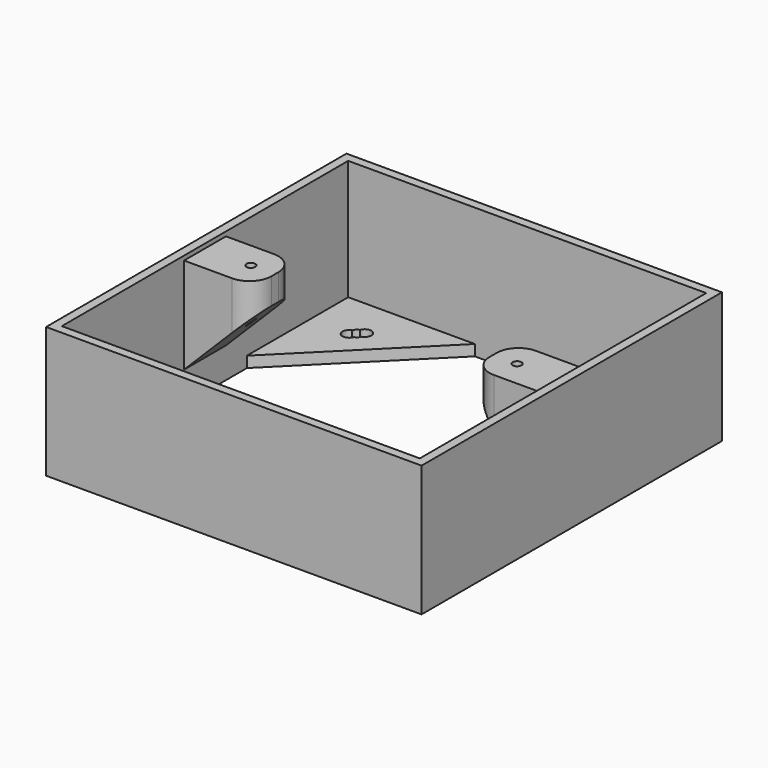
from build123d import *

# Parameters (mm, degrees)
BOX001_W                   = 82
BOX001_H                   = 82
BOX001_DEPTH               = 30
BOX_W                      = 86
BOX_H                      = 86
BOX_DEPTH                  = 30
CYLINDER004_R              = 1.5
CYLINDER004_DEPTH          = 2.5
CYLINDER003_R              = 1.5
CYLINDER003_DEPTH          = 2.5
CYLINDER002_R              = 1.5
CYLINDER002_DEPTH          = 2.5
BOX009_W                   = 30
BOX009_H                   = 30
BOX009_DEPTH               = 2.5
CHAMFER004_SIZE            = 29
CUT005_PLACEMENT_ANGLE     = 90
CYLINDER007_R              = 1.5
CYLINDER007_DEPTH          = 2.5
CYLINDER006_R              = 1.5
CYLINDER006_DEPTH          = 2.5
CYLINDER005_R              = 1.5
CYLINDER005_DEPTH          = 2.5
BOX010_W                   = 30
BOX010_H                   = 30
BOX010_DEPTH               = 2.5
CHAMFER005_SIZE            = 29
CUT008_PLACEMENT_ANGLE     = 180
CYLINDER010_R              = 1.5
CYLINDER010_DEPTH          = 2.5
CYLINDER009_R              = 1.5
CYLINDER009_DEPTH          = 2.5
CYLINDER008_R              = 1.5
CYLINDER008_DEPTH          = 2.5
BOX011_W                   = 30
BOX011_H                   = 30
BOX011_DEPTH               = 2.5
CHAMFER006_SIZE            = 29
CUT011_PLACEMENT_ANGLE     = -90
CYLINDER013_R              = 1.5
CYLINDER013_DEPTH          = 2.5
CYLINDER012_R              = 1.5
CYLINDER012_DEPTH          = 2.5
CYLINDER011_R              = 1.5
CYLINDER011_DEPTH          = 2.5
BOX012_W                   = 30
BOX012_H                   = 30
BOX012_DEPTH               = 2.5
CHAMFER007_SIZE            = 29
BOX015_W                   = 16
BOX015_H                   = 12
BOX015_DEPTH               = 6
BOX013_W                   = 21
BOX013_H                   = 12
BOX013_DEPTH               = 21
CHAMFER_SIZE               = 20
CYLINDER_R                 = 1
CYLINDER_DEPTH             = 29
BOX002_W                   = 16
BOX002_H                   = 12
BOX002_DEPTH               = 29
FILLET_R                   = 5
BOX016_W                   = 16
BOX016_H                   = 12
BOX016_DEPTH               = 6
BOX014_W                   = 21
BOX014_H                   = 12
BOX014_DEPTH               = 21
CHAMFER008_SIZE            = 20
CHAMFER008_PLACEMENT_ANGLE = 180
CYLINDER001_R              = 1
CYLINDER001_DEPTH          = 29
BOX003_W                   = 16
BOX003_H                   = 12
BOX003_DEPTH               = 29
FILLET001_R                = 5


with BuildPart() as cube001:
    # Box001 → Box001 (new body)
    with BuildSketch(Plane(origin=(2, 2, 0), x_dir=(1, 0, 0), z_dir=(0, 0, 1))):
        with Locations((41, 41)):
            Rectangle(BOX001_W, BOX001_H)
    extrude(amount=BOX001_DEPTH)


with BuildPart() as cut:
    # Box → Box (new body)
    with BuildSketch(Plane.XY):
        with Locations((43, 43)):
            Rectangle(BOX_W, BOX_H)
    extrude(amount=BOX_DEPTH)

    # Cut: cut Cube001
    add(cube001.part, mode=Mode.SUBTRACT)


with BuildPart() as cylinder002:
    # Cylinder004 → Cylinder004 (new body)
    with BuildSketch(Plane(origin=(12, -30, 0), x_dir=(1, 0, 0), z_dir=(0, 0, 1))):
        Circle(CYLINDER004_R)
    extrude(amount=CYLINDER004_DEPTH)


with BuildPart() as cylinder001:
    # Cylinder003 → Cylinder003 (new body)
    with BuildSketch(Plane(origin=(11, -29, 0), x_dir=(1, 0, 0), z_dir=(0, 0, 1))):
        Circle(CYLINDER003_R)
    extrude(amount=CYLINDER003_DEPTH)


with BuildPart() as cylinder:
    # Cylinder002 → Cylinder002 (new body)
    with BuildSketch(Plane(origin=(10, -28, 0), x_dir=(1, 0, 0), z_dir=(0, 0, 1))):
        Circle(CYLINDER002_R)
    extrude(amount=CYLINDER002_DEPTH)


with BuildPart() as cut005:
    # Box009 → Box009 (new body)
    with BuildSketch(Plane(origin=(0, -40, 0), x_dir=(1, 0, 0), z_dir=(0, 0, 1))):
        with Locations((15, 15)):
            Rectangle(BOX009_W, BOX009_H)
    extrude(amount=BOX009_DEPTH)

    # Chamfer004
    chamfer004_edges = [cut005.edges().sort_by_distance(p)[0] for p in [
        (30, -10, 1.25),
    ]]
    chamfer(chamfer004_edges, length=CHAMFER004_SIZE)

    # Cut003: cut Cylinder
    add(cylinder.part, mode=Mode.SUBTRACT)

    # Cut004: cut Cylinder001
    add(cylinder001.part, mode=Mode.SUBTRACT)

    # Cut005: cut Cylinder002
    add(cylinder002.part, mode=Mode.SUBTRACT)


with BuildPart() as cut005_1:
    # Cut005 placement: moved
    add(cut005.part.moved(Location((45, 1, 0))).rotate(Axis((45, 1, 0), (0, 0, 1)), CUT005_PLACEMENT_ANGLE))


with BuildPart() as cylinder005:
    # Cylinder007 → Cylinder007 (new body)
    with BuildSketch(Plane(origin=(12, -30, 0), x_dir=(1, 0, 0), z_dir=(0, 0, 1))):
        Circle(CYLINDER007_R)
    extrude(amount=CYLINDER007_DEPTH)


with BuildPart() as cylinder015:
    # Cylinder006 → Cylinder006 (new body)
    with BuildSketch(Plane(origin=(11, -29, 0), x_dir=(1, 0, 0), z_dir=(0, 0, 1))):
        Circle(CYLINDER006_R)
    extrude(amount=CYLINDER006_DEPTH)


with BuildPart() as cylinder014:
    # Cylinder005 → Cylinder005 (new body)
    with BuildSketch(Plane(origin=(10, -28, 0), x_dir=(1, 0, 0), z_dir=(0, 0, 1))):
        Circle(CYLINDER005_R)
    extrude(amount=CYLINDER005_DEPTH)


with BuildPart() as cut008:
    # Box010 → Box010 (new body)
    with BuildSketch(Plane(origin=(0, -40, 0), x_dir=(1, 0, 0), z_dir=(0, 0, 1))):
        with Locations((15, 15)):
            Rectangle(BOX010_W, BOX010_H)
    extrude(amount=BOX010_DEPTH)

    # Chamfer005
    chamfer005_edges = [cut008.edges().sort_by_distance(p)[0] for p in [
        (30, -10, 1.25),
    ]]
    chamfer(chamfer005_edges, length=CHAMFER005_SIZE)

    # Cut006: cut Cylinder014
    add(cylinder014.part, mode=Mode.SUBTRACT)

    # Cut007: cut Cylinder015
    add(cylinder015.part, mode=Mode.SUBTRACT)

    # Cut008: cut Cylinder005
    add(cylinder005.part, mode=Mode.SUBTRACT)


with BuildPart() as cut008_1:
    # Cut008 placement: moved
    add(cut008.part.moved(Location((85, 45, 0))).rotate(Axis((85, 45, 0), (0, 0, 1)), CUT008_PLACEMENT_ANGLE))


with BuildPart() as cylinder018:
    # Cylinder010 → Cylinder010 (new body)
    with BuildSketch(Plane(origin=(12, -30, 0), x_dir=(1, 0, 0), z_dir=(0, 0, 1))):
        Circle(CYLINDER010_R)
    extrude(amount=CYLINDER010_DEPTH)


with BuildPart() as cylinder017:
    # Cylinder009 → Cylinder009 (new body)
    with BuildSketch(Plane(origin=(11, -29, 0), x_dir=(1, 0, 0), z_dir=(0, 0, 1))):
        Circle(CYLINDER009_R)
    extrude(amount=CYLINDER009_DEPTH)


with BuildPart() as cylinder016:
    # Cylinder008 → Cylinder008 (new body)
    with BuildSketch(Plane(origin=(10, -28, 0), x_dir=(1, 0, 0), z_dir=(0, 0, 1))):
        Circle(CYLINDER008_R)
    extrude(amount=CYLINDER008_DEPTH)


with BuildPart() as cut011:
    # Box011 → Box011 (new body)
    with BuildSketch(Plane(origin=(0, -40, 0), x_dir=(1, 0, 0), z_dir=(0, 0, 1))):
        with Locations((15, 15)):
            Rectangle(BOX011_W, BOX011_H)
    extrude(amount=BOX011_DEPTH)

    # Chamfer006
    chamfer006_edges = [cut011.edges().sort_by_distance(p)[0] for p in [
        (30, -10, 1.25),
    ]]
    chamfer(chamfer006_edges, length=CHAMFER006_SIZE)

    # Cut009: cut Cylinder016
    add(cylinder016.part, mode=Mode.SUBTRACT)

    # Cut010: cut Cylinder017
    add(cylinder017.part, mode=Mode.SUBTRACT)

    # Cut011: cut Cylinder018
    add(cylinder018.part, mode=Mode.SUBTRACT)


with BuildPart() as cut011_1:
    # Cut011 placement: moved
    add(cut011.part.moved(Location((41, 85, 0))).rotate(Axis((41, 85, 0), (0, 0, 1)), CUT011_PLACEMENT_ANGLE))


with BuildPart() as cylinder011:
    # Cylinder013 → Cylinder013 (new body)
    with BuildSketch(Plane(origin=(12, -30, 0), x_dir=(1, 0, 0), z_dir=(0, 0, 1))):
        Circle(CYLINDER013_R)
    extrude(amount=CYLINDER013_DEPTH)


with BuildPart() as cylinder020:
    # Cylinder012 → Cylinder012 (new body)
    with BuildSketch(Plane(origin=(11, -29, 0), x_dir=(1, 0, 0), z_dir=(0, 0, 1))):
        Circle(CYLINDER012_R)
    extrude(amount=CYLINDER012_DEPTH)


with BuildPart() as cylinder019:
    # Cylinder011 → Cylinder011 (new body)
    with BuildSketch(Plane(origin=(10, -28, 0), x_dir=(1, 0, 0), z_dir=(0, 0, 1))):
        Circle(CYLINDER011_R)
    extrude(amount=CYLINDER011_DEPTH)


with BuildPart() as cut014:
    # Box012 → Box012 (new body)
    with BuildSketch(Plane(origin=(0, -40, 0), x_dir=(1, 0, 0), z_dir=(0, 0, 1))):
        with Locations((15, 15)):
            Rectangle(BOX012_W, BOX012_H)
    extrude(amount=BOX012_DEPTH)

    # Chamfer007
    chamfer007_edges = [cut014.edges().sort_by_distance(p)[0] for p in [
        (30, -10, 1.25),
    ]]
    chamfer(chamfer007_edges, length=CHAMFER007_SIZE)

    # Cut012: cut Cylinder019
    add(cylinder019.part, mode=Mode.SUBTRACT)

    # Cut013: cut Cylinder020
    add(cylinder020.part, mode=Mode.SUBTRACT)

    # Cut014: cut Cylinder011
    add(cylinder011.part, mode=Mode.SUBTRACT)


with BuildPart() as cut014_1:
    # Cut014 placement: moved
    add(cut014.part.moved(Location((1, 41, 0))))


with BuildPart() as cube015:
    # Box015 → Box015 (new body)
    with BuildSketch(Plane(origin=(2, 37, 0), x_dir=(1, 0, 0), z_dir=(0, 0, 1))):
        with Locations((8, 6)):
            Rectangle(BOX015_W, BOX015_H)
    extrude(amount=BOX015_DEPTH)


with BuildPart() as chamfer_body:
    # Box013 → Box013 (new body)
    with BuildSketch(Plane(origin=(1, 37, 5), x_dir=(1, 0, 0), z_dir=(0, 0, 1))):
        with Locations((10.5, 6)):
            Rectangle(BOX013_W, BOX013_H)
    extrude(amount=BOX013_DEPTH)

    # Chamfer
    chamfer_edges = [chamfer_body.edges().sort_by_distance(p)[0] for p in [
        (1, 43, 26),
    ]]
    chamfer(chamfer_edges, length=CHAMFER_SIZE)


with BuildPart() as loch1:
    # Cylinder → Cylinder (new body)
    with BuildSketch(Plane(origin=(12.5, 43, 0), x_dir=(1, 0, 0), z_dir=(0, 0, 1))):
        Circle(CYLINDER_R)
    extrude(amount=CYLINDER_DEPTH)


with BuildPart() as cut017:
    # Box002 → Box002 (new body)
    with BuildSketch(Plane(origin=(2, 37, 0), x_dir=(1, 0, 0), z_dir=(0, 0, 1))):
        with Locations((8, 6)):
            Rectangle(BOX002_W, BOX002_H)
    extrude(amount=BOX002_DEPTH)

    # Fillet
    fillet_edges = [cut017.edges().sort_by_distance(p)[0] for p in [
        (18, 37, 14.5),
        (18, 49, 14.5),
    ]]
    fillet(fillet_edges, radius=FILLET_R)

    # Cut001: cut Loch1
    add(loch1.part, mode=Mode.SUBTRACT)

    # Cut015: cut Chamfer body
    add(chamfer_body.part, mode=Mode.SUBTRACT)

    # Cut017: cut Cube015
    add(cube015.part, mode=Mode.SUBTRACT)


with BuildPart() as cube016:
    # Box016 → Box016 (new body)
    with BuildSketch(Plane(origin=(68, 37, 0), x_dir=(1, 0, 0), z_dir=(0, 0, 1))):
        with Locations((8, 6)):
            Rectangle(BOX016_W, BOX016_H)
    extrude(amount=BOX016_DEPTH)


with BuildPart() as chamfer008:
    # Box014 → Box014 (new body)
    with BuildSketch(Plane(origin=(1, 37, 5), x_dir=(1, 0, 0), z_dir=(0, 0, 1))):
        with Locations((10.5, 6)):
            Rectangle(BOX014_W, BOX014_H)
    extrude(amount=BOX014_DEPTH)

    # Chamfer008
    chamfer008_edges = [chamfer008.edges().sort_by_distance(p)[0] for p in [
        (1, 43, 26),
    ]]
    chamfer(chamfer008_edges, length=CHAMFER008_SIZE)


with BuildPart() as chamfer008_1:
    # Chamfer008 placement: moved
    add(chamfer008.part.moved(Location((86, 86, 0))).rotate(Axis((86, 86, 0), (0, 0, 1)), CHAMFER008_PLACEMENT_ANGLE))


with BuildPart() as loch2:
    # Cylinder001 → Cylinder001 (new body)
    with BuildSketch(Plane(origin=(73.5, 43, 0), x_dir=(1, 0, 0), z_dir=(0, 0, 1))):
        Circle(CYLINDER001_R)
    extrude(amount=CYLINDER001_DEPTH)


with BuildPart() as cut018:
    # Box003 → Box003 (new body)
    with BuildSketch(Plane(origin=(68, 37, 0), x_dir=(1, 0, 0), z_dir=(0, 0, 1))):
        with Locations((8, 6)):
            Rectangle(BOX003_W, BOX003_H)
    extrude(amount=BOX003_DEPTH)

    # Fillet001
    fillet001_edges = [cut018.edges().sort_by_distance(p)[0] for p in [
        (68, 37, 14.5),
        (68, 49, 14.5),
    ]]
    fillet(fillet001_edges, radius=FILLET001_R)

    # Cut002: cut Loch2
    add(loch2.part, mode=Mode.SUBTRACT)

    # Cut016: cut Chamfer008
    add(chamfer008_1.part, mode=Mode.SUBTRACT)

    # Cut018: cut Cube016
    add(cube016.part, mode=Mode.SUBTRACT)


solid = Compound([cut.part, cut005_1.part, cut008_1.part, cut011_1.part, cut014_1.part, cut017.part, cut018.part])
